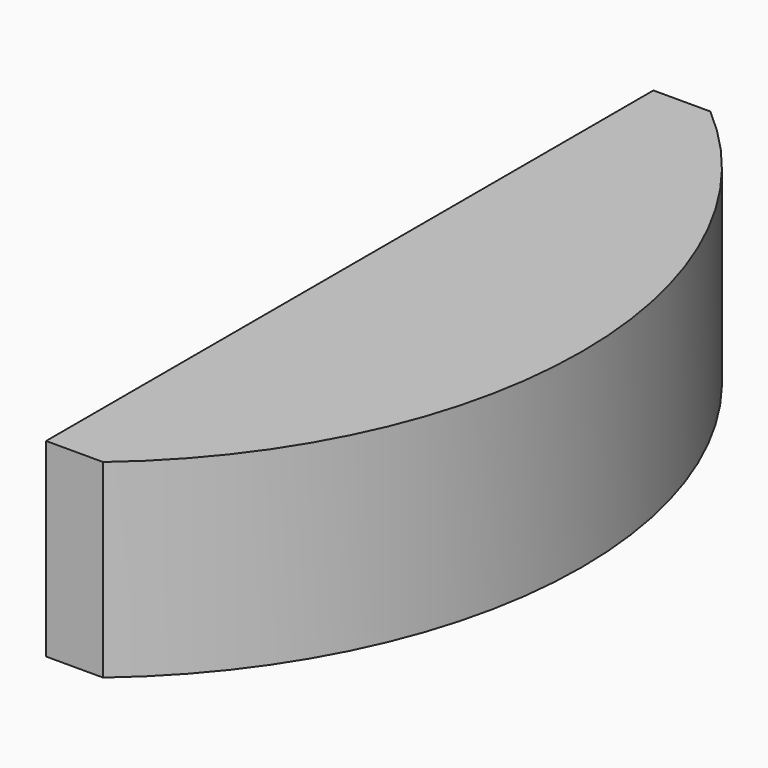
from build123d import *

# Parameters (mm, degrees)
F0_W     = 7.62
F0_H     = 101.6
F1_DEPTH = 25.4
F2_T     = -6.35


with BuildPart() as f1:
    # F0 (on Top) → F1 (new body)
    with BuildSketch(Plane.XY):
        with Locations((-58.607377, 34.623115)):
            Rectangle(F0_W, F0_H)
        with BuildLine():
            ThreePointArc((-54.797377, -16.176885), (-31.325019, 34.623115), (-54.797377, 85.423115))
            Line((-54.797377, 85.423115), (-54.797377, -16.176885))
        make_face()
    extrude(amount=F1_DEPTH)

    # F2
    f2_openings = [f1.faces().sort_by_distance(p)[0] for p in [
        (-62.417377, 34.623115, 12.7),
    ]]
    offset(amount=F2_T, openings=f2_openings)


solid = f1.part
